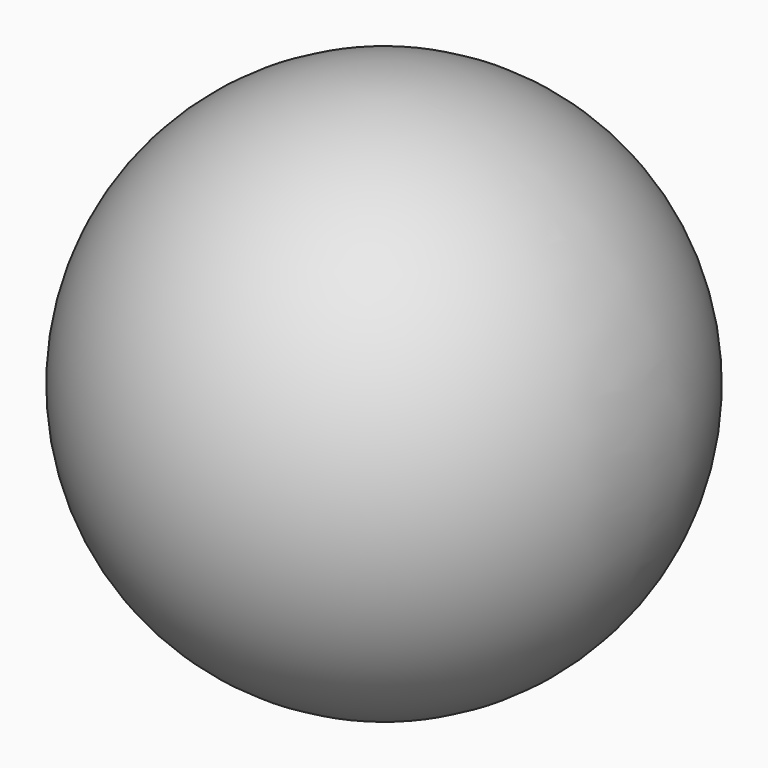
from build123d import *


with BuildPart() as part:
    # Sphere → Sphere (revolve)
    with BuildSketch(Plane.XZ):
        with BuildLine():
            ThreePointArc((0, -39), (39, 0), (0, 39))
            Line((0, 39), (0, -39))
        make_face()
    revolve(axis=Axis((0, 0, 0), (0, 0, 1)))


solid = part.part
